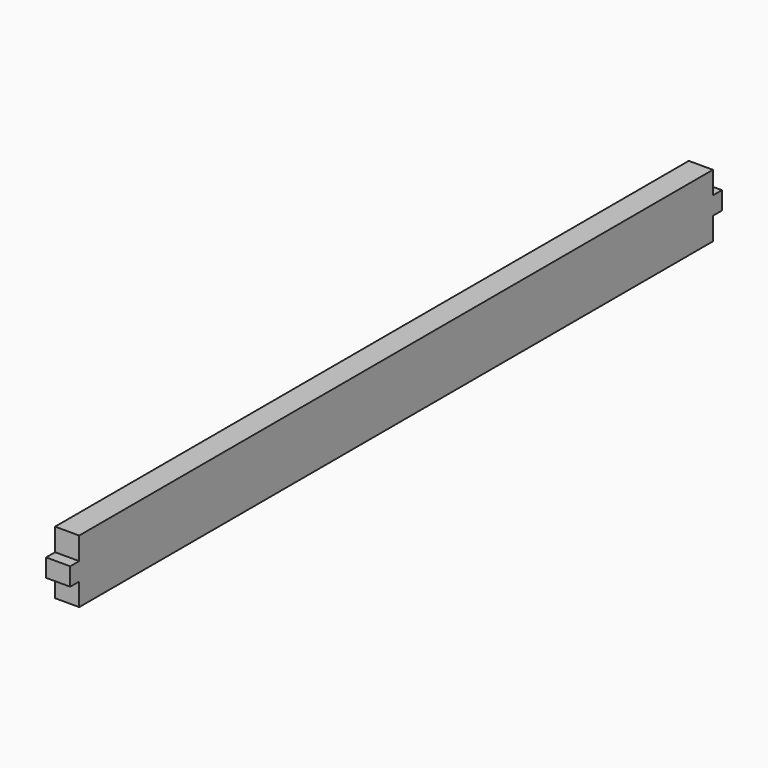
from build123d import *

# Parameters (mm, degrees)
F0_W     = 574.421
F0_H     = 44.45
F1_DEPTH = 17.018
F2_W     = 7.9375
F2_H     = 15.875
F3_DEPTH = 25.4


with BuildPart() as f1:
    # F0 (on Right) → F1 (new body)
    with BuildSketch(Plane.YZ):
        Rectangle(F0_W, F0_H)
    extrude(amount=F1_DEPTH)

    # F2 (on face) → F3 (cut)
    with BuildSketch(Plane.YZ.offset(17.018)):
        with Locations((-283.24175, 14.2875)):
            Rectangle(F2_W, F2_H)
        with Locations((-283.24175, -14.2875)):
            Rectangle(F2_W, F2_H)
        with Locations((283.24175, 14.2875)):
            Rectangle(F2_W, F2_H)
        with Locations((283.24175, -14.2875)):
            Rectangle(F2_W, F2_H)
    extrude(amount=-F3_DEPTH, mode=Mode.SUBTRACT)


solid = f1.part
